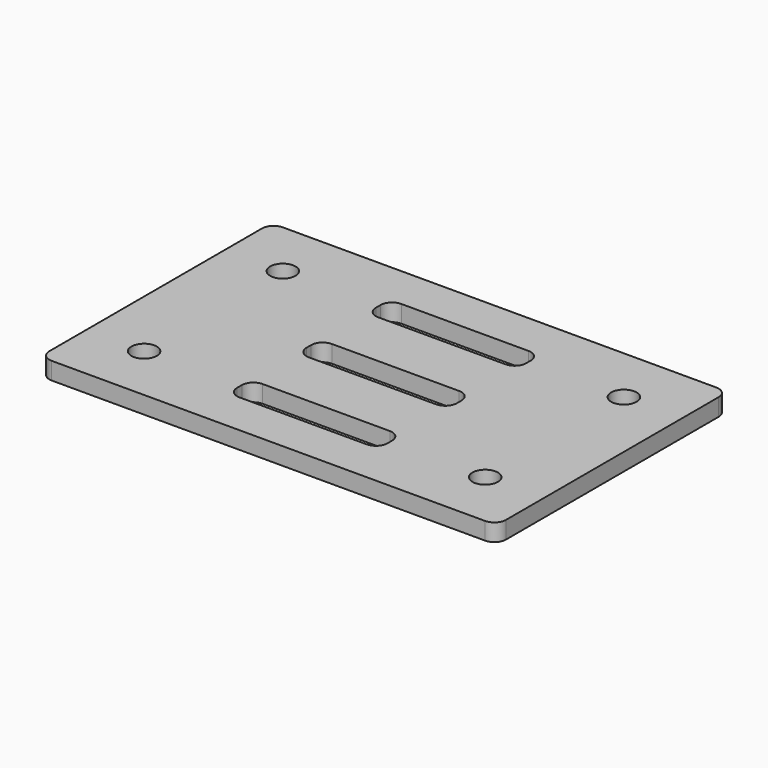
from build123d import *

# Parameters (mm, degrees)
F0_R     = 1.1
F1_DEPTH = 1.5


with BuildPart() as f1:
    # F0 (on Top) → F1 (new body)
    with BuildSketch(Plane.XY):
        with BuildLine():
            ThreePointArc((19.75, 11.5), (19.457107, 12.207107), (18.75, 12.5))
            Line((18.75, 12.5), (-18.75, 12.5))
            ThreePointArc((-18.75, 12.5), (-19.457107, 12.207107), (-19.75, 11.5))
            Line((-19.75, 11.5), (-19.75, -11.5))
            ThreePointArc((-19.75, -11.5), (-19.457107, -12.207107), (-18.75, -12.5))
            Line((-18.75, -12.5), (18.75, -12.5))
            ThreePointArc((18.75, -12.5), (19.457107, -12.207107), (19.75, -11.5))
            Line((19.75, -11.5), (19.75, 11.5))
        make_face()
        with Locations((-14.75, -7.5)):
            Circle(F0_R, mode=Mode.SUBTRACT)
        with BuildLine():
            ThreePointArc((-5.5, -8.75), (-6.207107, -8.457107), (-6.5, -7.75))
            Line((-6.5, -7.75), (-6.5, -7.25))
            ThreePointArc((-6.5, -7.25), (-6.207107, -6.542893), (-5.5, -6.25))
            Line((-5.5, -6.25), (5.5, -6.25))
            ThreePointArc((5.5, -6.25), (6.207107, -6.542893), (6.5, -7.25))
            Line((6.5, -7.25), (6.5, -7.75))
            ThreePointArc((6.5, -7.75), (6.207107, -8.457107), (5.5, -8.75))
            Line((5.5, -8.75), (-5.5, -8.75))
        make_face(mode=Mode.SUBTRACT)
        with Locations((14.75, -7.5)):
            Circle(F0_R, mode=Mode.SUBTRACT)
        with Locations((-14.75, 7.5)):
            Circle(F0_R, mode=Mode.SUBTRACT)
        with BuildLine():
            ThreePointArc((-6.5, 0.25), (-6.207107, 0.957107), (-5.5, 1.25))
            Line((-5.5, 1.25), (5.5, 1.25))
            ThreePointArc((5.5, 1.25), (6.207107, 0.957107), (6.5, 0.25))
            Line((6.5, 0.25), (6.5, -0.25))
            ThreePointArc((6.5, -0.25), (6.207107, -0.957107), (5.5, -1.25))
            Line((5.5, -1.25), (-5.5, -1.25))
            ThreePointArc((-5.5, -1.25), (-6.207107, -0.957107), (-6.5, -0.25))
            Line((-6.5, -0.25), (-6.5, 0.25))
        make_face(mode=Mode.SUBTRACT)
        with BuildLine():
            ThreePointArc((-6.5, 7.75), (-6.207107, 8.457107), (-5.5, 8.75))
            Line((-5.5, 8.75), (5.5, 8.75))
            ThreePointArc((5.5, 8.75), (6.207107, 8.457107), (6.5, 7.75))
            Line((6.5, 7.75), (6.5, 7.25))
            ThreePointArc((6.5, 7.25), (6.207107, 6.542893), (5.5, 6.25))
            Line((5.5, 6.25), (-5.5, 6.25))
            ThreePointArc((-5.5, 6.25), (-6.207107, 6.542893), (-6.5, 7.25))
            Line((-6.5, 7.25), (-6.5, 7.75))
        make_face(mode=Mode.SUBTRACT)
        with Locations((14.75, 7.5)):
            Circle(F0_R, mode=Mode.SUBTRACT)
    extrude(amount=F1_DEPTH)


solid = f1.part
